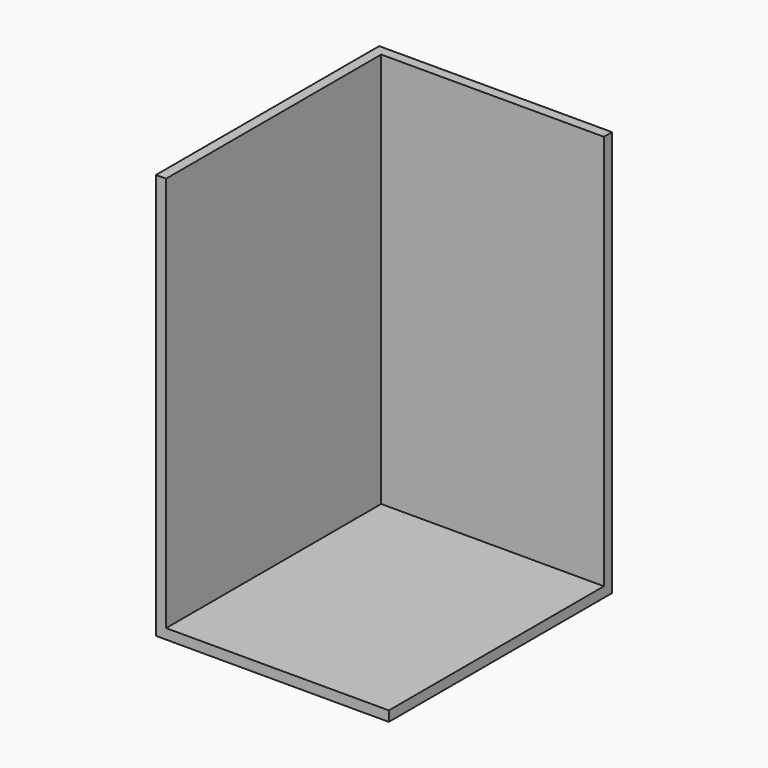
from build123d import *

# Parameters (mm, degrees)
F0_W     = 57.383817
F0_H     = 68.749718
F1_DEPTH = 100
F2_T     = -2.5


with BuildPart() as f1:
    # F0 (on Top) → F1 (new body)
    with BuildSketch(Plane.XY):
        with Locations((0.768422, -3.042359)):
            Rectangle(F0_W, F0_H)
    extrude(amount=F1_DEPTH)

    # F2
    f2_openings = [f1.faces().sort_by_distance(p)[0] for p in [
        (0.768421, -3.042359, 100),
        (29.46033, -3.042359, 50),
        (0.768421, -37.417218, 50),
    ]]
    offset(amount=F2_T, openings=f2_openings)


solid = f1.part
